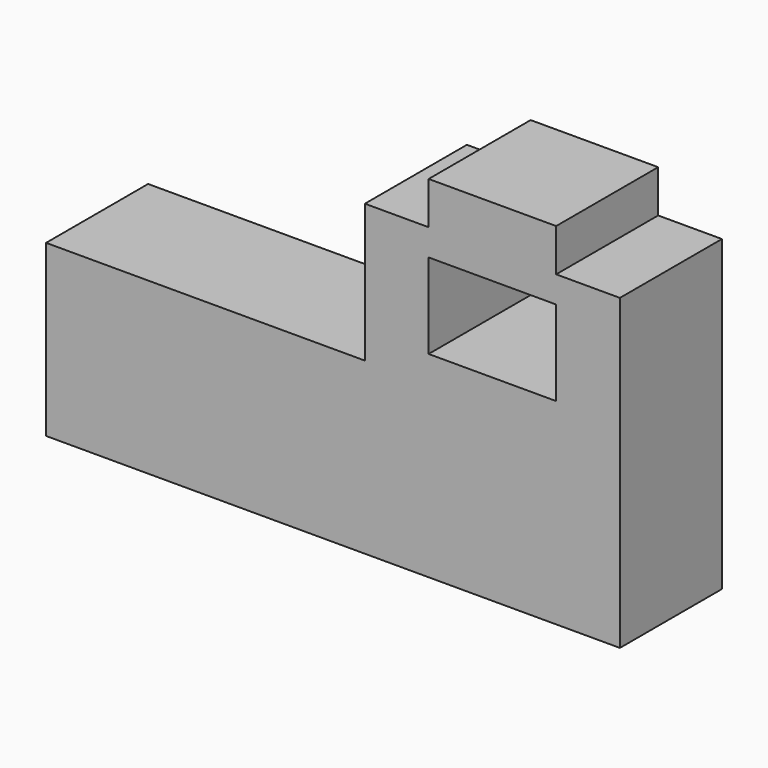
from build123d import *

# Parameters (mm, degrees)
F0_W     = 609.6
F0_H     = 406.4
F1_DEPTH = 609.6


with BuildPart() as f1:
    # F0 (on Front) → F1 (new body)
    with BuildSketch(Plane.XZ):
        Polygon((0, 812.8), (0, 0), (2743.2, 0), (2743.2, 1473.2), (2438.4, 1473.2), (2438.4, 1676.4), (1828.8, 1676.4), (1828.8, 1473.2), (1524, 1473.2), (1524, 812.8), align=None)
        with Locations((2133.6, 1143)):
            Rectangle(F0_W, F0_H, mode=Mode.SUBTRACT)
    extrude(amount=F1_DEPTH)


solid = f1.part
